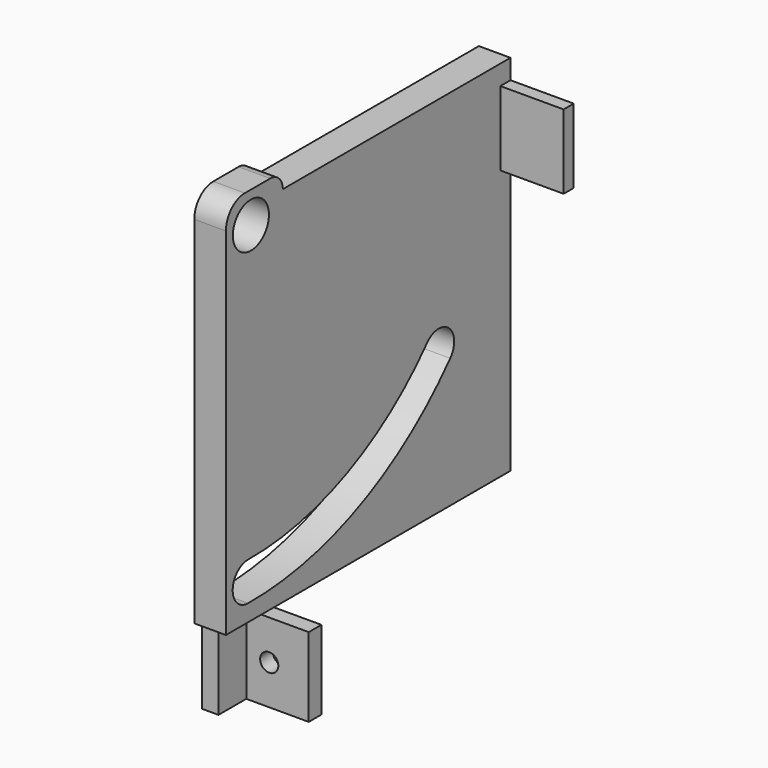
from build123d import *

# Parameters (mm, degrees)
PAD046_DEPTH    = 4
SKETCH079_R     = 2.85
POCKET030_DEPTH = 5
PAD047_DEPTH    = 10
SKETCH081_R     = 1.15
POCKET031_DEPTH = 5
SKETCH096_W     = 1.6
SKETCH096_H     = 9.4
PAD058_DEPTH    = 8


with BuildPart() as part:
    # Sketch078 → Pad046 (new body)
    with BuildSketch(Plane.YZ):
        with BuildLine():
            Line((0, -13), (45, -13))
            Line((45, -13), (45, 33))
            Line((45, 33), (9, 33))
            ThreePointArc((9, 33), (8.414214, 34.414214), (7, 35))
            Line((7, 35), (3, 35))
            ThreePointArc((3, 35), (0.87868, 34.12132), (0, 32))
            Line((0, 32), (0, -13))
        make_face()
    extrude(amount=PAD046_DEPTH)

    # Sketch079 (on Face9 of Pad046) → Pocket030 (cut)
    with BuildSketch(Plane.YZ.offset(4)):
        with Locations((3.95, 31.05)):
            Circle(SKETCH079_R)
        with BuildLine():
            ThreePointArc((3.5, -6.02), (1.07, -8.45), (3.5, -10.88))
            ThreePointArc((3.5, -10.88), (21.049368, -7.237583), (35.474671, 3.4))
            ThreePointArc((35.474671, 3.4), (35.286946, 6.831408), (31.855538, 6.643683))
            ThreePointArc((3.5, -6.02), (19.067667, -2.800311), (31.855538, 6.643683))
        make_face()
    extrude(amount=-POCKET030_DEPTH, mode=Mode.SUBTRACT)

    # Sketch080 (on Face1 of Pocket030) → Pad047 (join)
    with BuildSketch(Plane.YX.offset(13)):
        Polygon((1.2, 2.1), (5.6, 2.1), (5.6, 10), (7.6, 10), (7.6, 0), (5.6, 0), (1.2, 0), align=None)
    extrude(amount=PAD047_DEPTH)

    # Sketch081 (on Face21 of Pad047) → Pocket031 (cut)
    with BuildSketch(Plane.ZX.offset(7.6)):
        with Locations((-18, 5)):
            Circle(SKETCH081_R)
    extrude(amount=-POCKET031_DEPTH, mode=Mode.SUBTRACT)

    # Sketch096 (on Face6 of Pocket031) → Pad058 (join)
    with BuildSketch(Plane.YZ.offset(4)):
        with Locations((44.2, 25.8)):
            Rectangle(SKETCH096_W, SKETCH096_H)
    extrude(amount=PAD058_DEPTH)


with BuildPart() as part_1:
    # Body019 placement: moved
    add(part.part.moved(Location((-69, -51, -39))))


solid = part_1.part
